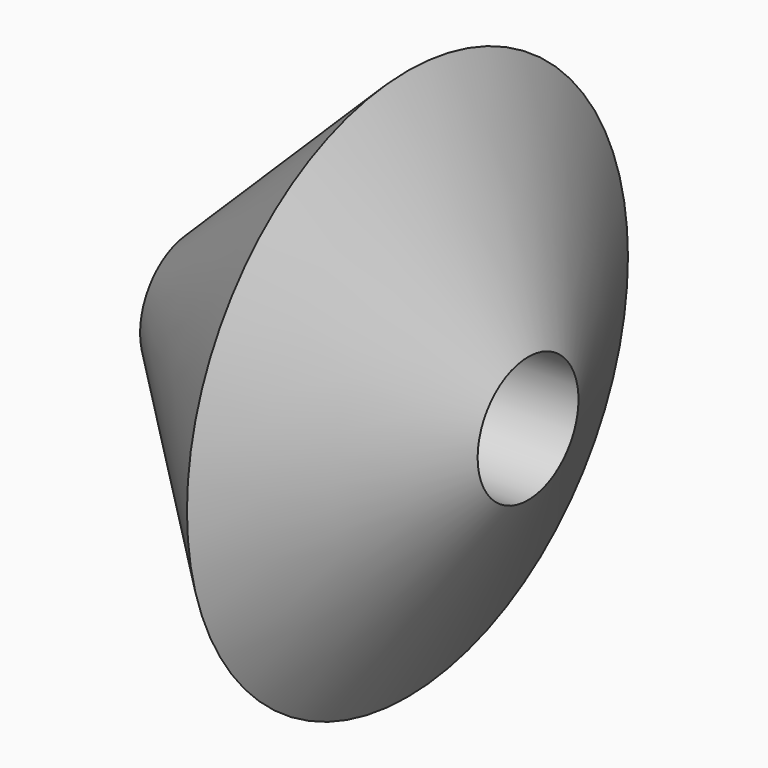
from build123d import *


with BuildPart() as f2:
    # F0 (on Top) → F2 (revolve)
    with BuildSketch(Plane.XY):
        Polygon((-385.129541, 0), (0, -377.375603), (214.123994, 0), align=None)
    revolve(axis=Axis((-105.572194, 111.915231, 0), (-1, 0, 0)))


solid = f2.part
